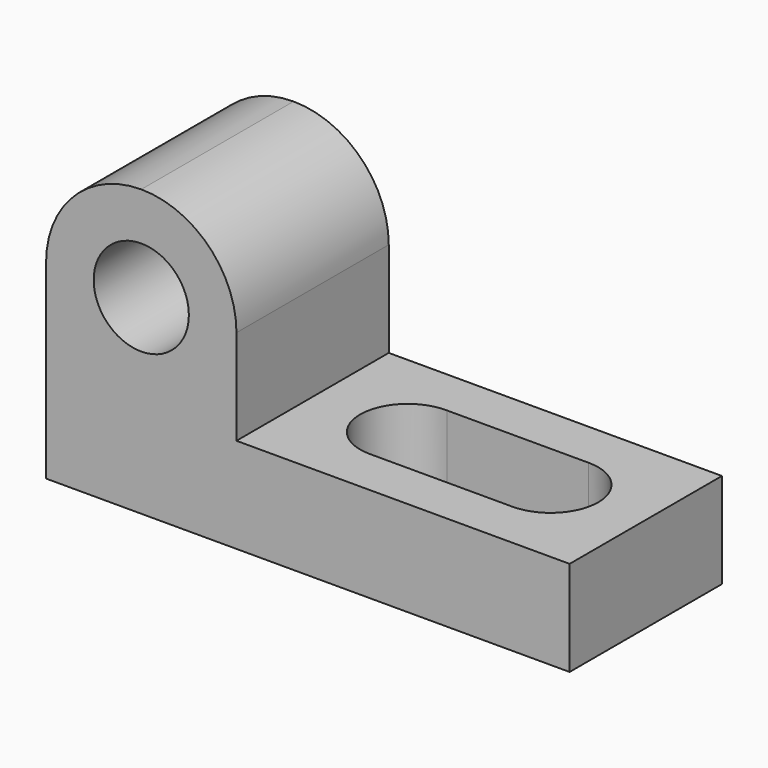
from build123d import *

# Parameters (mm, degrees)
F1_DEPTH = 25.4
F2_R     = 6.35
F3_DEPTH = 25.4
F4_DEPTH = 25.4
F7_DEPTH = 12.7


with BuildPart() as f1:
    # F0 (on Front) → F1 (new body)
    with BuildSketch(Plane.XZ):
        Polygon((25.4, 38.1), (0, 38.1), (0, 0), (69.85, 0), (69.85, 12.7), (25.4, 12.7), align=None)
    extrude(amount=F1_DEPTH)

    # F2 (on face) → F3 (cut)
    with BuildSketch(Plane.XZ.offset(25.4)):
        with Locations((12.7, 25.4)):
            Circle(F2_R)
    extrude(amount=-F3_DEPTH, mode=Mode.SUBTRACT)

    # F2 (on face) → F4 (cut)
    with BuildSketch(Plane.XZ.offset(25.4)):
        with BuildLine():
            ThreePointArc((0, 25.4), (3.719744, 34.380256), (12.7, 38.1))
            Line((12.7, 38.1), (0, 38.1))
            Line((0, 38.1), (0, 25.4))
        make_face()
        with BuildLine():
            ThreePointArc((12.7, 38.1), (21.680256, 34.380256), (25.4, 25.4))
            Line((25.4, 25.4), (25.4, 38.1))
            Line((25.4, 38.1), (12.7, 38.1))
        make_face()
    extrude(amount=-F4_DEPTH, mode=Mode.SUBTRACT)

    # F6 (on face) → F7 (cut)
    with BuildSketch(Plane.XY.offset(12.7)):
        with BuildLine():
            ThreePointArc((38.260814, -19.047963), (42.646629, -17.132907), (44.45, -12.7))
            ThreePointArc((44.45, -12.7), (42.64191, -8.262258), (38.247307, -6.351709))
            ThreePointArc((38.247307, -6.351709), (31.751886, -12.545255), (37.937817, -19.047929))
            Line((37.937817, -19.047929), (38.260814, -19.047963))
        make_face()
        with BuildLine():
            ThreePointArc((38.247307, -6.351709), (42.64191, -8.262258), (44.45, -12.7))
            ThreePointArc((44.45, -12.7), (42.646629, -17.132907), (38.260814, -19.047963))
            Line((38.260814, -19.047963), (57.149315, -19.05))
            ThreePointArc((57.149315, -19.05), (50.8, -12.699945), (57.149426, -6.35))
            Line((57.149426, -6.35), (38.247307, -6.351709))
        make_face()
        with BuildLine():
            ThreePointArc((37.937817, -19.047929), (38.099315, -19.05), (38.260814, -19.047963))
            Line((38.260814, -19.047963), (37.937817, -19.047929))
        make_face()
        with BuildLine():
            ThreePointArc((63.5, -12.7), (61.639925, -8.209669), (57.149426, -6.35))
            ThreePointArc((57.149426, -6.35), (50.8, -12.699945), (57.149315, -19.05))
            ThreePointArc((57.149315, -19.05), (61.639886, -17.19037), (63.5, -12.7))
        make_face()
    extrude(amount=-F7_DEPTH, mode=Mode.SUBTRACT)


solid = f1.part
